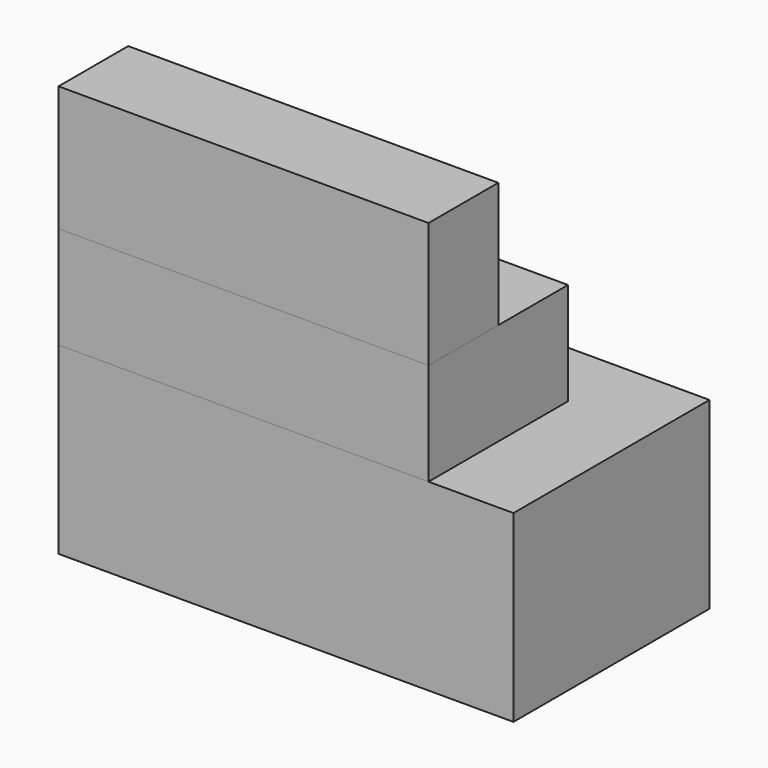
from build123d import *

# Parameters (mm, degrees)
F0_W     = 55.305324
F0_H     = 29.787272
F1_DEPTH = 22.352
F2_W     = 44.987052
F2_H     = 21.184455
F3_DEPTH = 12.446
F4_W     = 44.987052
F4_H     = 10.592228
F5_DEPTH = 15.24


with BuildPart() as f1:
    # F0 (on Top) → F1 (new body)
    with BuildSketch(Plane.XY):
        Rectangle(F0_W, F0_H)
    extrude(amount=F1_DEPTH)


with BuildPart() as f3:
    # F2 (on face) → F3 (new body)
    with BuildSketch(Plane.XY.offset(22.352)):
        with Locations((-5.159136, -4.301408)):
            Rectangle(F2_W, F2_H)
    extrude(amount=F3_DEPTH)


with BuildPart() as f5:
    # F4 (on face) → F5 (new body)
    with BuildSketch(Plane.XY.offset(34.798)):
        with Locations((-5.159136, -9.597522)):
            Rectangle(F4_W, F4_H)
    extrude(amount=F5_DEPTH)


solid = Compound([f1.part, f3.part, f5.part])
